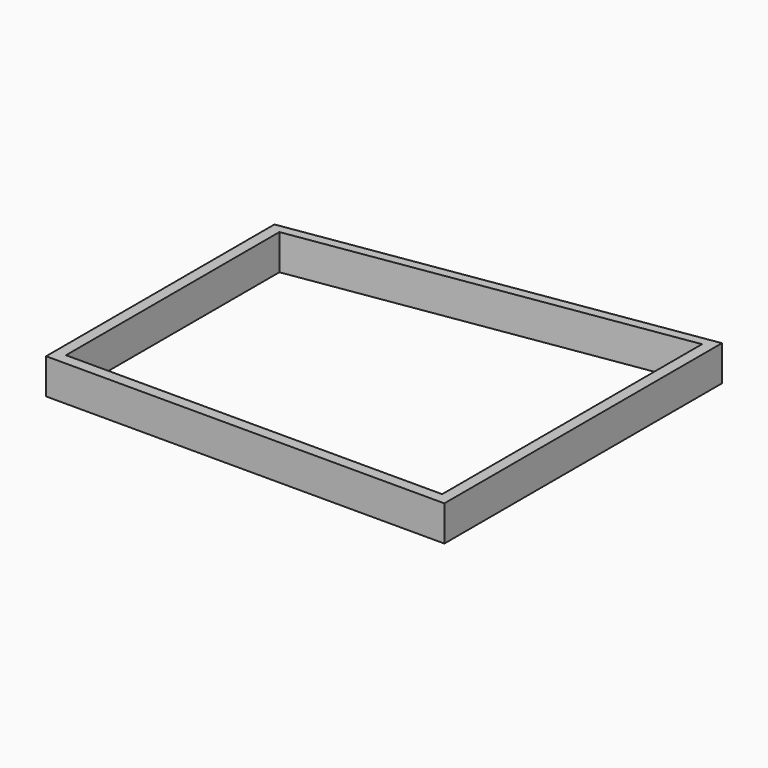
from build123d import *

# Parameters (mm, degrees)
PAD_DEPTH = 8


with BuildPart() as part:
    # Sketch → Pad (new body)
    with BuildSketch(Plane.XY):
        Polygon((0, 0), (0, 64.5), (90, 78.4), (90, 0), align=None)
        Polygon((2.5, 2.5), (87.5, 2.5), (87.5, 75.9), (2.5, 62.772222), align=None, mode=Mode.SUBTRACT)
    extrude(amount=PAD_DEPTH)


solid = part.part
